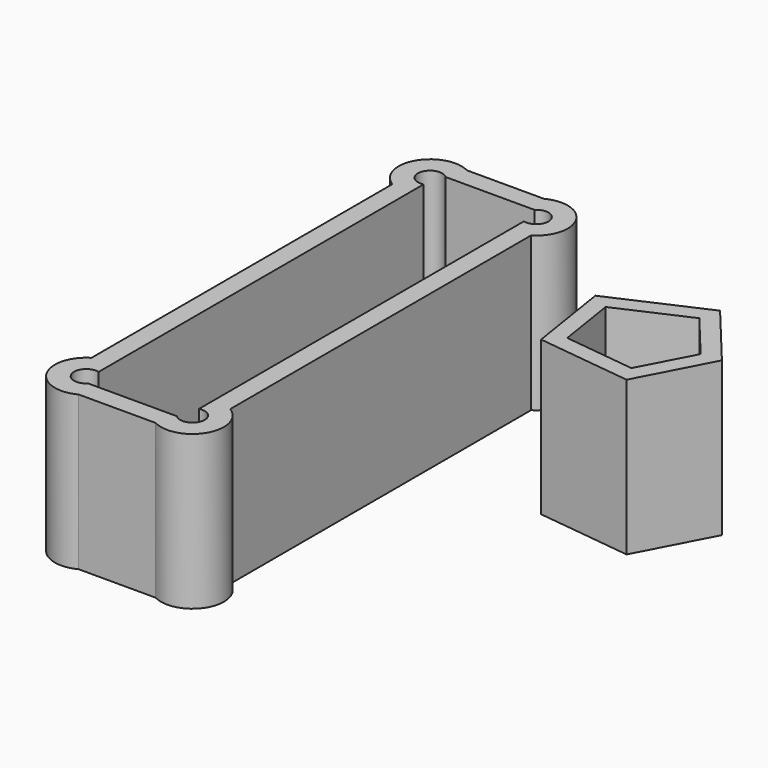
from build123d import *

# Parameters (mm, degrees)
F1_DEPTH = 50.8
F3_DEPTH = 50.8


with BuildPart() as f1:
    # F0 (on Top) → F1 (new body)
    with BuildSketch(Plane.XY):
        with BuildLine():
            Line((-84.138669, 2.362034), (-84.138669, -59.716704))
            Line((-84.138669, -59.716704), (-84.138669, -121.795443))
            ThreePointArc((-84.138669, -121.795443), (-87.78975, -135.770498), (-73.936728, -139.860283))
            Line((-73.936728, -139.860283), (-61.236728, -139.860283))
            Line((-61.236728, -139.860283), (-48.536728, -139.860283))
            ThreePointArc((-48.536728, -139.860283), (-34.683706, -135.770498), (-38.334787, -121.795443))
            Line((-38.334787, -121.795443), (-38.334787, -59.716704))
            Line((-38.334787, -59.716704), (-38.334787, 2.362034))
            ThreePointArc((-38.334787, 2.362034), (-34.683706, 16.337089), (-48.536728, 20.426874))
            Line((-48.536728, 20.426874), (-61.236728, 20.426874))
            Line((-61.236728, 20.426874), (-73.936728, 20.426874))
            ThreePointArc((-73.936728, 20.426874), (-87.78975, 16.337089), (-84.138669, 2.362034))
        make_face()
        with BuildLine():
            Line((-77.788669, -126.755658), (-77.788669, -59.716704))
            Line((-77.788669, -59.716704), (-77.788669, 7.32225))
            ThreePointArc((-77.788669, 7.32225), (-82.632316, 12.318846), (-75.899098, 14.076874))
            Line((-75.899098, 14.076874), (-61.236728, 14.076874))
            Line((-61.236728, 14.076874), (-46.574358, 14.076874))
            ThreePointArc((-46.574358, 14.076874), (-39.841139, 12.318846), (-44.684787, 7.32225))
            Line((-44.684787, 7.32225), (-44.684787, -59.716704))
            Line((-44.684787, -59.716704), (-44.684787, -126.755658))
            ThreePointArc((-44.684787, -126.755658), (-39.841139, -131.752255), (-46.574358, -133.510283))
            Line((-46.574358, -133.510283), (-61.236728, -133.510283))
            Line((-61.236728, -133.510283), (-75.899098, -133.510283))
            ThreePointArc((-75.899098, -133.510283), (-82.632316, -131.752255), (-77.788669, -126.755658))
        make_face(mode=Mode.SUBTRACT)
    extrude(amount=F1_DEPTH)


with BuildPart() as f3:
    # F2 (on Top) → F3 (new body)
    with BuildSketch(Plane.XY):
        Polygon((-4.373238, -13.550746), (0, -41.399363), (31.229308, -45.164667), (43.675117, -21.363582), (25.973424, 0), align=None)
        Polygon((1.631003, -16.811673), (24.424006, -6.633875), (37.195122, -22.046909), (28.15795, -39.329394), (4.723394, -36.5039), align=None, mode=Mode.SUBTRACT)
    extrude(amount=F3_DEPTH)


solid = Compound([f1.part, f3.part])
